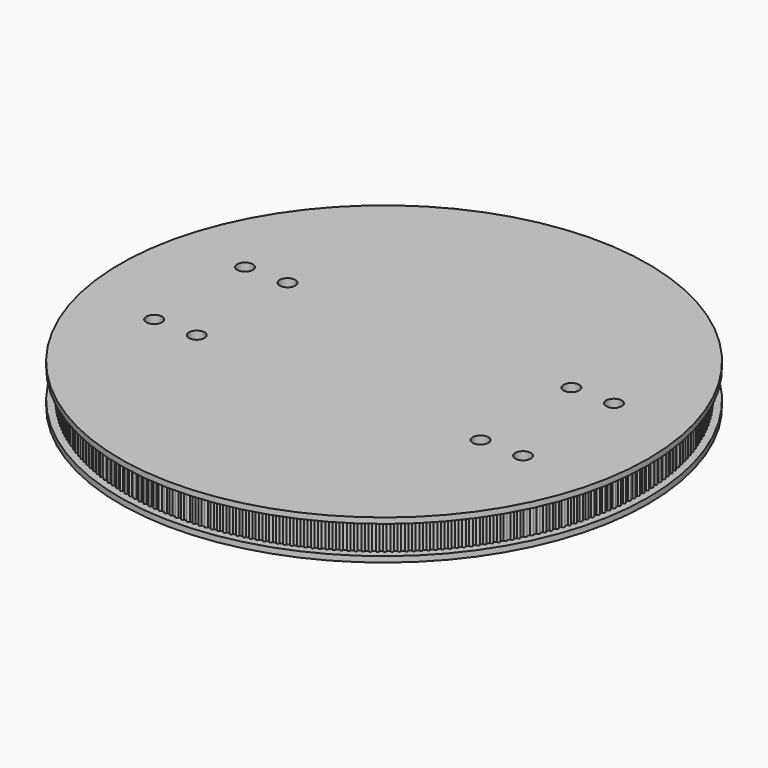
from build123d import *

# Parameters (mm, degrees)
SKETCH111_R           = 42
PAD041_DEPTH          = 11
PAD042_DEPTH          = 11
SKETCH114_R           = 0.5
PAD043_DEPTH          = 10
POLARPATTERN011_COUNT = 283
SKETCH119_R           = 2.75
HOLE005_DEPTH         = 25
SKETCH120_R           = 1.7
HOLE006_DEPTH         = 20
HOLE006_TIPS_R        = 1.7


with BuildPart() as part:
    # Sketch106 → Revolution (revolve)
    with BuildSketch(Plane.XZ):
        Polygon((93, 0), (93, 2), (90, 2), (90, 12), (93, 12), (93, 14), (0, 14), (0, 11), (76, 11), (76, 0), align=None)
    revolve(axis=Axis((0, 0, 0), (0, 0, 1)))

    # Sketch111 → Pad041 (new body)
    with BuildSketch(Plane.XY):
        with BuildLine():
            ThreePointArc((-9.738628, 42.90873), (0, -44), (9.738628, 42.90873))
            ThreePointArc((9.738628, 42.90873), (0, 46.5), (-9.738628, 42.90873))
        make_face()
        Circle(SKETCH111_R, mode=Mode.SUBTRACT)
    extrude(amount=PAD041_DEPTH)

    # Sketch113 → Pad042 (join)
    with BuildSketch(Plane.XY):
        with BuildLine():
            ThreePointArc((-1.25, 3.269174), (-3.5, 0), (-1.25, -3.269174))
            Line((-1.25, -3.269174), (-1.25, -9.269174))
            Line((-1.25, -9.269174), (-0.25, -9.269174))
            Line((-0.25, -9.269174), (-0.25, -2.437212))
            ThreePointArc((-0.25, 2.437212), (-2.45, 0), (-0.25, -2.437212))
            Line((-0.25, 9.269174), (-0.25, 2.437212))
            Line((-1.25, 9.269174), (-0.25, 9.269174))
            Line((-1.25, 3.269174), (-1.25, 9.269174))
        make_face()
        with BuildLine():
            ThreePointArc((1.25, -3.269174), (3.5, 0), (1.25, 3.269174))
            Line((1.25, 9.269174), (1.25, 3.269174))
            Line((0.25, 9.269174), (1.25, 9.269174))
            Line((0.25, 2.437212), (0.25, 9.269174))
            ThreePointArc((0.25, -2.437212), (2.45, 0), (0.25, 2.437212))
            Line((0.25, -9.269174), (0.25, -2.437212))
            Line((1.25, -9.269174), (0.25, -9.269174))
            Line((1.25, -3.269174), (1.25, -9.269174))
        make_face()
    extrude(amount=PAD042_DEPTH)

    # Sketch114 → Pad043 (join)
    with BuildSketch(Plane(origin=(0, 90, 2), x_dir=(1, 0, 0), z_dir=(0, 0, 1))):
        Circle(SKETCH114_R)
    pad043 = extrude(amount=PAD043_DEPTH)

    # PolarPattern011: Pad043 ×283 about axis
    polarpattern011_axis = Axis((0, 0, 0), (0, 0, 1))
    for i in range(1, POLARPATTERN011_COUNT):
        add(pad043.rotate(polarpattern011_axis, i * 360 / POLARPATTERN011_COUNT))

    # Sketch119 → Hole005 (cut)
    with BuildSketch(Plane.XY.offset(14)):
        with Locations((-65, 20)):
            Circle(SKETCH119_R)
        with Locations((-65, -20)):
            Circle(SKETCH119_R)
        with Locations((65, 20)):
            Circle(SKETCH119_R)
        with Locations((65, -20)):
            Circle(SKETCH119_R)
        with Locations((-50, 20)):
            Circle(SKETCH119_R)
        with Locations((-50, -20)):
            Circle(SKETCH119_R)
        with Locations((50, 20)):
            Circle(SKETCH119_R)
        with Locations((50, -20)):
            Circle(SKETCH119_R)
    extrude(amount=-HOLE005_DEPTH, mode=Mode.SUBTRACT)

    # Sketch120 → Hole006 (cut)
    with BuildSketch(Plane.YZ.offset(5)):
        with Locations((-6, 5)):
            Circle(SKETCH120_R)
        with Locations((6, 5)):
            Circle(SKETCH120_R)
    extrude(amount=-HOLE006_DEPTH, mode=Mode.SUBTRACT)

    # Hole006 tips → Hole006 tip 1 section 0
    with BuildSketch(Plane.YZ.offset(-15), mode=Mode.PRIVATE) as hole006_tip_1_s0:
        with Locations((-6, 5)):
            Circle(HOLE006_TIPS_R)
    loft([hole006_tip_1_s0.sketch, Vertex(-16.021463, -6, 5)], mode=Mode.SUBTRACT)

    # Hole006 tips → Hole006 tip 2 section 0
    with BuildSketch(Plane.YZ.offset(-15), mode=Mode.PRIVATE) as hole006_tip_2_s0:
        with Locations((6, 5)):
            Circle(HOLE006_TIPS_R)
    loft([hole006_tip_2_s0.sketch, Vertex(-16.021463, 6, 5)], mode=Mode.SUBTRACT)


solid = part.part
